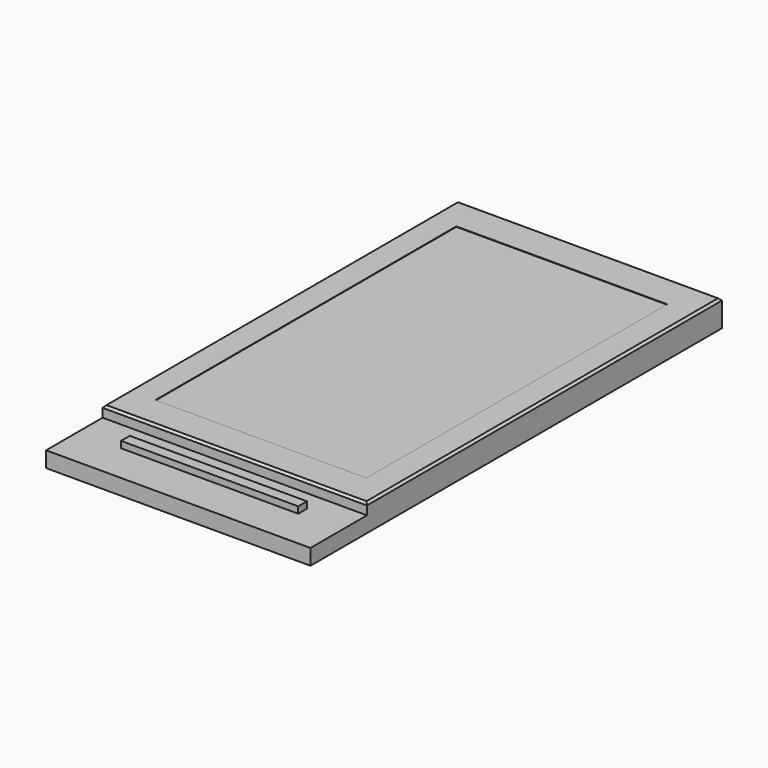
from build123d import *

# Parameters (mm, degrees)
SKETCH_W     = 12.13
SKETCH_H     = 23.6
PAD_DEPTH    = 0.72
SKETCH001_W  = 12.13
SKETCH001_H  = 20.36
PAD001_DEPTH = 0.5
SKETCH002_W  = 8.13
SKETCH002_H  = 0.5
PAD002_DEPTH = 0.3
SKETCH003_W  = 9.68
SKETCH003_H  = 17.26
POCKET_DEPTH = 0.02
CHAMFER_SIZE = 0.1


with BuildPart() as part:
    # Sketch → Pad (new body)
    with BuildSketch(Plane.XY):
        with Locations((6.065, 11.8)):
            Rectangle(SKETCH_W, SKETCH_H)
    extrude(amount=PAD_DEPTH)

    # Sketch001 (on Face6 of Pad) → Pad001 (join)
    with BuildSketch(Plane.XY.offset(0.72)):
        with Locations((6.065, 13.42)):
            Rectangle(SKETCH001_W, SKETCH001_H)
    extrude(amount=PAD001_DEPTH)

    # Sketch002 (on Face5 of Pad001) → Pad002 (join)
    with BuildSketch(Plane.XY.offset(0.72)):
        with Locations((6.065, 2.05)):
            Rectangle(SKETCH002_W, SKETCH002_H)
    extrude(amount=PAD002_DEPTH)

    # Sketch003 (on Face15 of Pad002) → Pocket (cut)
    with BuildSketch(Plane.XY.offset(1.22)):
        with Locations((6.065, 13.37)):
            Rectangle(SKETCH003_W, SKETCH003_H)
    extrude(amount=-POCKET_DEPTH, mode=Mode.SUBTRACT)

    # Chamfer
    chamfer_edges = [part.edges().sort_by_distance(p)[0] for p in [
        (6.065, 23.6, 1.22),
        (0, 13.42, 1.22),
        (6.065, 3.24, 1.22),
        (12.13, 13.42, 1.22),
    ]]
    chamfer(chamfer_edges, length=CHAMFER_SIZE)


solid = part.part
